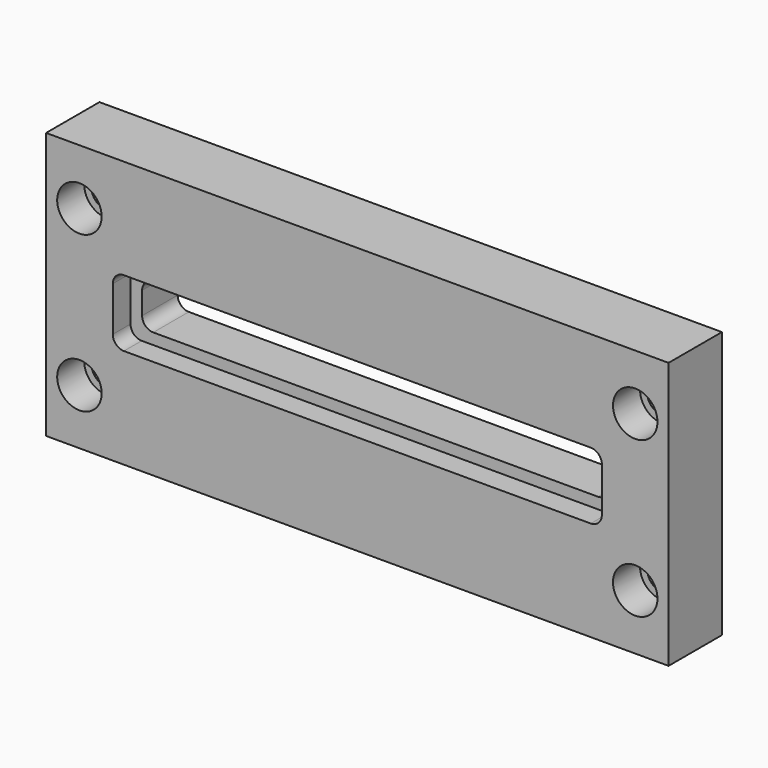
from build123d import *

# Parameters (mm, degrees)
F0_W           = 177.8
F0_H           = 76.2
F1_DEPTH       = 19.05
F3_DEPTH       = 25.4
F5_DEPTH       = 6.35
F7_D           = 8.636
F7_CBORE_D     = 12.7
F7_CBORE_DEPTH = 9.652


with BuildPart() as f1:
    # F0 (on Front) → F1 (new body)
    with BuildSketch(Plane.XZ):
        with Locations((88.9, 38.1)):
            Rectangle(F0_W, F0_H)
    extrude(amount=F1_DEPTH)

    # F2 (on face) → F3 (cut)
    with BuildSketch(Plane.XZ.offset(19.05)):
        with BuildLine():
            ThreePointArc((22.352, 34.925), (23.281936, 32.679936), (25.527, 31.75))
            Line((25.527, 31.75), (152.527, 31.75))
            ThreePointArc((152.527, 31.75), (154.772064, 32.679936), (155.702, 34.925))
            Line((155.702, 34.925), (155.702, 41.3004))
            ThreePointArc((155.702, 41.3004), (154.772064, 43.545464), (152.527, 44.4754))
            Line((152.527, 44.4754), (25.527, 44.4754))
            ThreePointArc((25.527, 44.4754), (23.281936, 43.545464), (22.352, 41.3004))
            Line((22.352, 41.3004), (22.352, 34.925))
        make_face()
    extrude(amount=-F3_DEPTH, mode=Mode.SUBTRACT)

    # F4 (on face) → F5 (cut)
    with BuildSketch(Plane.XZ.offset(19.05)):
        with BuildLine():
            Line((155.575, 47.6504), (22.225, 47.6504))
            ThreePointArc((22.225, 47.6504), (19.979936, 46.720464), (19.05, 44.4754))
            Line((19.05, 44.4754), (19.05, 31.75))
            ThreePointArc((19.05, 31.75), (19.979936, 29.504936), (22.225, 28.575))
            Line((22.225, 28.575), (155.575, 28.575))
            ThreePointArc((155.575, 28.575), (157.820064, 29.504936), (158.75, 31.75))
            Line((158.75, 31.75), (158.75, 44.4754))
            ThreePointArc((158.75, 44.4754), (157.820064, 46.720464), (155.575, 47.6504))
        make_face()
    extrude(amount=-F5_DEPTH, mode=Mode.SUBTRACT)

    # F7 (through all)
    with Locations(Plane.XZ.offset(19.05)):
        with Locations((9.525, 15.875), (9.525, 60.325), (168.275, 60.325), (168.275, 15.875)):
            CounterBoreHole(F7_D / 2, F7_CBORE_D / 2, F7_CBORE_DEPTH)


solid = f1.part
